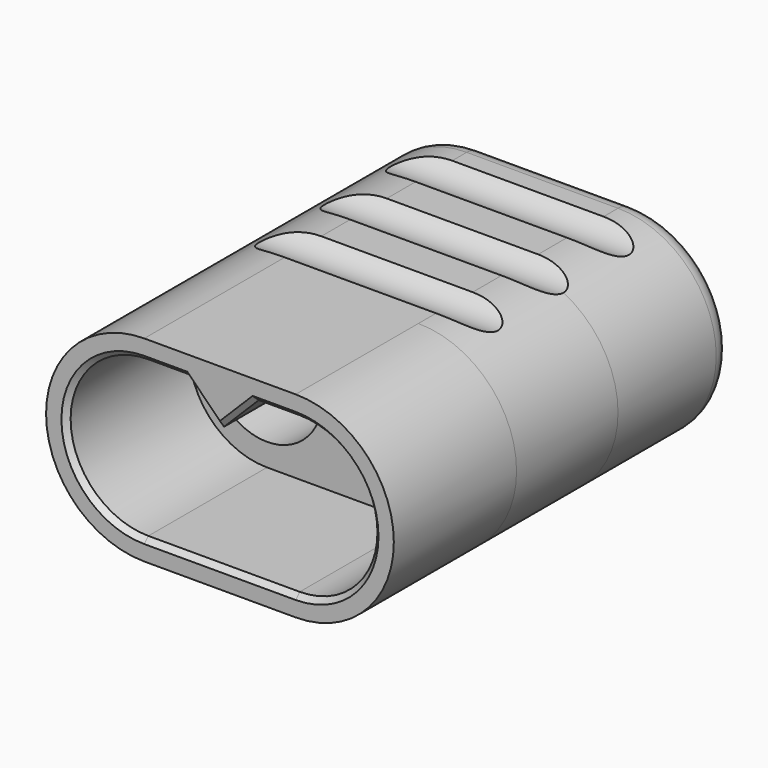
from build123d import *

# Parameters (mm, degrees)
F0_R      = 2.8
F1_DEPTH  = 1.5
F0_R_2    = 2.425
F2_DEPTH  = 2.2
F3_R      = 2.7
F4_DEPTH  = 2.5
F6_DEPTH  = 7.5
F7_R      = 3.2
F8_DEPTH  = 7
F9_R      = 1
F10_SIZE  = 0.25
F11_R     = 1.5
F12_DEPTH = 8.5


with BuildPart() as f1:
    # F0 (on Front) → F1 (new body)
    with BuildSketch(Plane.XZ):
        with BuildLine():
            Line((0, 4.8), (-3.7, 4.8))
            ThreePointArc((-3.7, 4.8), (-7.0941125497, 3.3941125497), (-8.5, 0))
            ThreePointArc((-8.5, 0), (-7.0941125497, -3.3941125497), (-3.7, -4.8))
            Line((-3.7, -4.8), (0, -4.8))
            Line((0, -4.8), (3.7, -4.8))
            ThreePointArc((3.7, -4.8), (7.0941125497, -3.3941125497), (8.5, 0))
            ThreePointArc((8.5, 0), (7.0941125497, 3.3941125497), (3.7, 4.8))
            Line((3.7, 4.8), (0, 4.8))
        make_face()
        with Locations((-3.7, 0)):
            Circle(F0_R, mode=Mode.SUBTRACT)
        with Locations((3.7, 0)):
            Circle(F0_R, mode=Mode.SUBTRACT)
    extrude(amount=-F1_DEPTH)

    # F0 (on Front) → F2 (join)
    with BuildSketch(Plane.XZ):
        with BuildLine():
            Line((0, 4.8), (-3.7, 4.8))
            ThreePointArc((-3.7, 4.8), (-7.0941125497, 3.3941125497), (-8.5, 0))
            ThreePointArc((-8.5, 0), (-7.0941125497, -3.3941125497), (-3.7, -4.8))
            Line((-3.7, -4.8), (0, -4.8))
            Line((0, -4.8), (3.7, -4.8))
            ThreePointArc((3.7, -4.8), (7.0941125497, -3.3941125497), (8.5, 0))
            ThreePointArc((8.5, 0), (7.0941125497, 3.3941125497), (3.7, 4.8))
            Line((3.7, 4.8), (0, 4.8))
        make_face()
        with Locations((-3.7, 0)):
            Circle(F0_R, mode=Mode.SUBTRACT)
        with Locations((3.7, 0)):
            Circle(F0_R, mode=Mode.SUBTRACT)
        with Locations((-3.7, 0)):
            Circle(F0_R)
        with Locations((-3.7, 0)):
            Circle(F0_R_2, mode=Mode.SUBTRACT)
        with Locations((3.7, 0)):
            Circle(F0_R)
        with Locations((3.7, 0)):
            Circle(F0_R_2, mode=Mode.SUBTRACT)
    extrude(amount=F2_DEPTH)

    # F3 (on face) → F4 (join)
    with BuildSketch(Plane.XZ.offset(2.2)):
        with BuildLine():
            ThreePointArc((3.7, -4.8), (8.5, 0), (3.7, 4.8))
            Line((3.7, 4.8), (-3.7, 4.8))
            ThreePointArc((-3.7, 4.8), (-8.5, 0), (-3.7, -4.8))
            Line((-3.7, -4.8), (3.7, -4.8))
        make_face()
        with Locations((-3.7, 0)):
            Circle(F3_R, mode=Mode.SUBTRACT)
        with Locations((3.7, 0)):
            Circle(F3_R, mode=Mode.SUBTRACT)
    extrude(amount=F4_DEPTH)

    # F5 (on face) → F6 (join)
    with BuildSketch(Plane.XZ.offset(4.7)):
        with BuildLine():
            ThreePointArc((-3.7, 4.8), (-8.5, 0), (-3.7, -4.8))
            Line((-3.7, -4.8), (3.7, -4.8))
            ThreePointArc((3.7, -4.8), (8.5, 0), (3.7, 4.8))
            Line((3.7, 4.8), (-3.7, 4.8))
        make_face()
        with BuildLine():
            Line((0, -3.8), (-3.7, -3.8))
            ThreePointArc((-3.7, -3.8), (-7.5, 0), (-3.7, 3.8))
            Line((-3.7, 3.8), (-1.7, 3.8))
            Line((-1.7, 3.8), (0, 2.1))
            Line((0, 2.1), (1.7, 3.8))
            Line((1.7, 3.8), (3.7, 3.8))
            ThreePointArc((3.7, 3.8), (7.5, 0), (3.7, -3.8))
            Line((3.7, -3.8), (0, -3.8))
        make_face(mode=Mode.SUBTRACT)
    extrude(amount=F6_DEPTH)

    # F7 (on face) → F8 (join)
    with BuildSketch(Plane(origin=(0, 1.5, 0), x_dir=(-1, 0, 0), z_dir=(0, 1, 0))):
        with BuildLine():
            ThreePointArc((3.7, -4.8), (8.5, 0), (3.7, 4.8))
            Line((3.7, 4.8), (-3.7, 4.8))
            ThreePointArc((-3.7, 4.8), (-8.5, 0), (-3.7, -4.8))
            Line((-3.7, -4.8), (3.7, -4.8))
        make_face()
        with Locations((-3.7, 0)):
            Circle(F7_R, mode=Mode.SUBTRACT)
        with Locations((3.7, 0)):
            Circle(F7_R, mode=Mode.SUBTRACT)
    extrude(amount=F8_DEPTH)

    # F9
    f9_edges = [f1.edges().sort_by_distance(p)[0] for p in [
        (0, 8.5, 4.8),
    ]]
    fillet(f9_edges, radius=F9_R)

    # F10
    f10_edges = [f1.edges().sort_by_distance(p)[0] for p in [
        (-7.5, -12.2, 0),
        (-2.7, -12.2, 3.8),
        (-0.85, -12.2, 2.95),
        (0.85, -12.2, 2.95),
        (2.7, -12.2, 3.8),
        (7.5, -12.2, 0),
        (0, -12.2, -3.8),
    ]]
    chamfer(f10_edges, length=F10_SIZE)

    # F11 (on Right) → F12 (cut, symmetric)
    with BuildSketch(Plane.YZ):
        with Locations((-2.5, 5.8)):
            Circle(F11_R)
        with Locations((1.5, 5.8)):
            Circle(F11_R)
        with Locations((5.5, 5.8)):
            Circle(F11_R)
        with Locations((-2.5, -5.8)):
            Circle(F11_R)
        with Locations((1.5, -5.8)):
            Circle(F11_R)
        with Locations((5.5, -5.8)):
            Circle(F11_R)
    extrude(amount=F12_DEPTH, both=True, mode=Mode.SUBTRACT)


solid = f1.part
